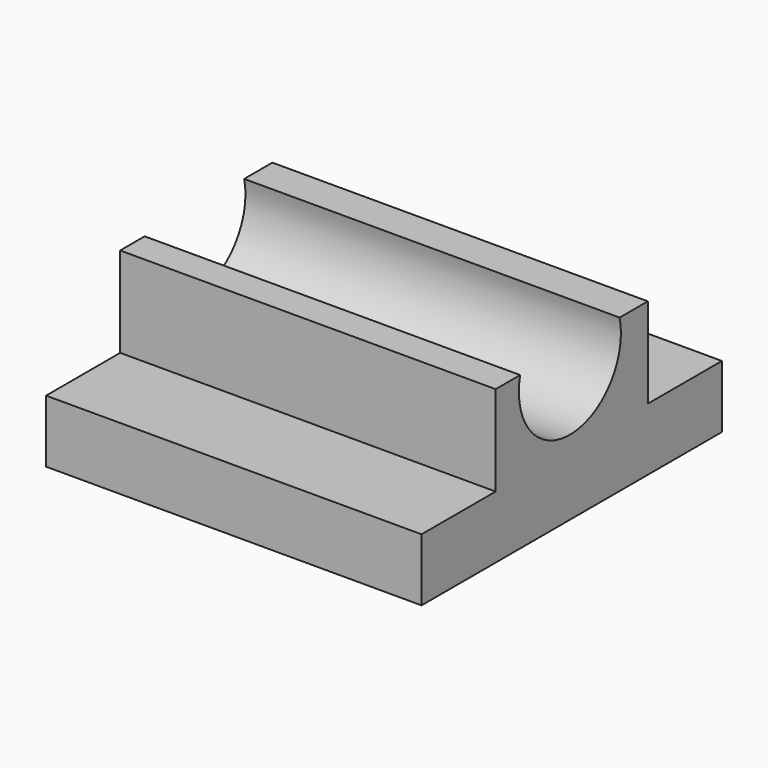
from build123d import *

# Parameters (mm, degrees)
F0_W     = 19.304
F0_H     = 9.1468828812
F1_DEPTH = 38.1
F2_R     = 6.4726915954
F3_DEPTH = 38.1


with BuildPart() as f1:
    # F0 (on Right) → F1 (new body)
    with BuildSketch(Plane.YZ):
        with Locations((8.8194421337, 7.7484414406)):
            Rectangle(F0_W, F0_H)
        Polygon((-10.2305578663, -3.175), (27.8694421337, -3.175), (27.8694421337, 3.175), (18.4714421337, 3.175), (-0.8325578663, 3.175), (-10.2305578663, 3.175), align=None)
    extrude(amount=F1_DEPTH)

    # F2 (on face) → F3 (cut)
    with BuildSketch(Plane.YZ.offset(38.1)):
        with Locations((8.5852267221, 10.8897443861)):
            Circle(F2_R)
    extrude(amount=-F3_DEPTH, mode=Mode.SUBTRACT)


solid = f1.part
